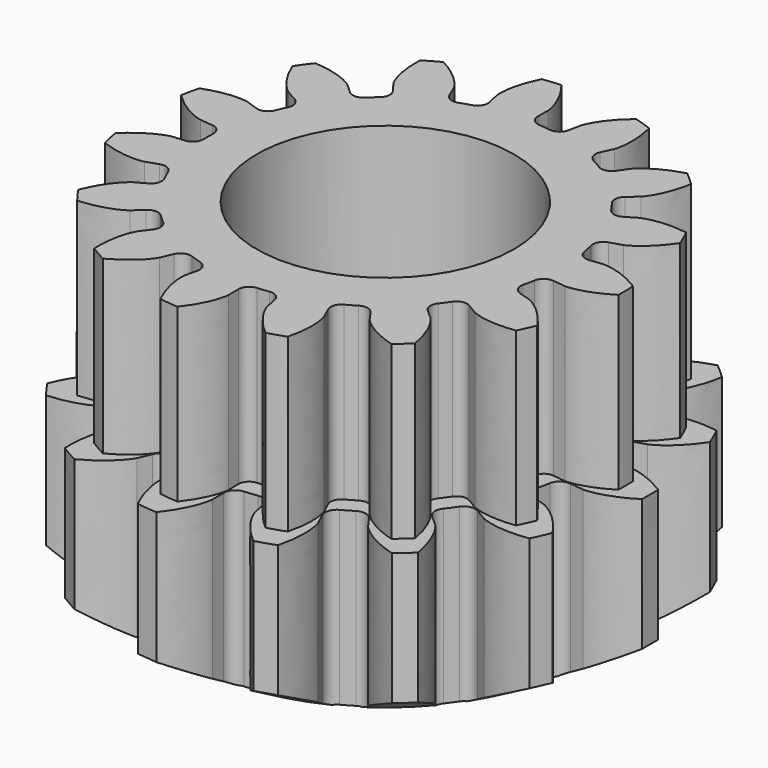
from build123d import *

# Parameters (mm, degrees)
PAD008_DEPTH    = 6
PAD009_DEPTH    = 6
SKETCH029_R     = 4.5
POCKET012_DEPTH = 12


with BuildPart() as part:
    # InvoluteGear005 → Pad008 (new body)
    with BuildSketch(Plane.XY):
        with BuildLine():
            Line((7.158149, -0.860395), (7.64458, -0.918067))
            add(Edge.make_bspline(
                [(7.64458, -0.918067), (7.723106, -0.920551), (8.037619, -0.919454), (8.590539, -0.778166), (9.258058, -0.35636)],
                knots=[0, 0, 0, 0, 0, 1, 1, 1, 1, 1], degree=4))
            ThreePointArc((9.258058, -0.35636), (9.264914, 0), (9.258058, 0.35636))
            add(Edge.make_bspline(
                [(9.258058, 0.35636), (8.590539, 0.778166), (8.037619, 0.919454), (7.723106, 0.920551), (7.64458, 0.918067)],
                knots=[0, 0, 0, 0, 0, 1, 1, 1, 1, 1], degree=4))
            Line((7.64458, 0.918067), (7.158149, 0.860395))
            ThreePointArc((7.158149, 0.860395), (6.866348, 0.937564), (6.70706, 1.193944))
            ThreePointArc((6.70706, 1.193944), (6.663631, 1.416398), (6.612825, 1.637285))
            ThreePointArc((6.612825, 1.637285), (6.654062, 1.936288), (6.889249, 2.125471))
            Line((6.889249, 2.125471), (7.357083, 2.270635))
            add(Edge.make_bspline(
                [(7.357083, 2.270635), (7.42983, 2.300305), (7.716706, 2.429231), (8.164356, 2.783197), (8.602602, 3.44004)],
                knots=[0, 0, 0, 0, 0, 1, 1, 1, 1, 1], degree=4))
            ThreePointArc((8.602602, 3.44004), (8.46392, 3.76838), (8.312712, 4.091143))
            add(Edge.make_bspline(
                [(8.312712, 4.091143), (7.531339, 4.204977), (6.968755, 4.109157), (6.680986, 3.982236), (6.61026, 3.948027)],
                knots=[0, 0, 0, 0, 0, 1, 1, 1, 1, 1], degree=4))
            Line((6.61026, 3.948027), (6.18934, 3.697492))
            ThreePointArc((6.18934, 3.697492), (5.891379, 3.649303), (5.641584, 3.818729))
            ThreePointArc((5.641584, 3.818729), (5.511428, 4.004287), (5.375172, 4.185413))
            ThreePointArc((5.375172, 4.185413), (5.291229, 4.475338), (5.429135, 4.743824))
            Line((5.429135, 4.743824), (5.797479, 5.066724))
            add(Edge.make_bspline(
                [(5.797479, 5.066724), (5.851869, 5.123417), (6.061504, 5.35788), (6.326482, 5.86332), (6.459677, 6.641627)],
                knots=[0, 0, 0, 0, 0, 1, 1, 1, 1, 1], degree=4))
            ThreePointArc((6.459677, 6.641627), (6.199438, 6.885173), (5.930023, 7.118529))
            add(Edge.make_bspline(
                [(5.930023, 7.118529), (5.169903, 6.904709), (4.694929, 6.58835), (4.483663, 6.355355), (4.432966, 6.295337)],
                knots=[0, 0, 0, 0, 0, 1, 1, 1, 1, 1], degree=4))
            Line((4.432966, 6.295337), (4.150338, 5.895258))
            ThreePointArc((4.150338, 5.895258), (3.897737, 5.730044), (3.600626, 5.783221))
            ThreePointArc((3.600626, 5.783221), (3.40625, 5.899798), (3.208103, 6.009844))
            ThreePointArc((3.208103, 6.009844), (3.013495, 6.240561), (3.030274, 6.541927))
            Line((3.030274, 6.541927), (3.235439, 6.98673))
            add(Edge.make_bspline(
                [(3.235439, 6.98673), (3.262067, 7.060644), (3.358213, 7.360103), (3.394702, 7.929621), (3.199816, 8.694815)],
                knots=[0, 0, 0, 0, 0, 1, 1, 1, 1, 1], degree=4))
            ThreePointArc((3.199816, 8.694815), (2.863016, 8.811457), (2.521979, 8.915058))
            add(Edge.make_bspline(
                [(2.521979, 8.915058), (1.914543, 8.410554), (1.609308, 7.928357), (1.511075, 7.629576), (1.489172, 7.554126)],
                knots=[0, 0, 0, 0, 0, 1, 1, 1, 1, 1], degree=4))
            Line((1.489172, 7.554126), (1.393705, 7.073681))
            ThreePointArc((1.393705, 7.073681), (1.230142, 6.820008), (0.937088, 6.747742))
            ThreePointArc((0.937088, 6.747742), (0.7121, 6.77518), (0.486324, 6.795119))
            ThreePointArc((0.486324, 6.795119), (0.214699, 6.926735), (0.107452, 7.208872))
            Line((0.107452, 7.208872), (0.113961, 7.698667))
            add(Edge.make_bspline(
                [(0.113961, 7.698667), (0.108224, 7.777021), (0.074257, 8.089697), (-0.124053, 8.624819), (-0.613323, 9.244591)],
                knots=[0, 0, 0, 0, 0, 1, 1, 1, 1, 1], degree=4))
            ThreePointArc((-0.613323, 9.244591), (-0.968447, 9.21416), (-1.322138, 9.170092))
            add(Edge.make_bspline(
                [(-1.322138, 9.170092), (-1.671859, 8.462138), (-1.754577, 7.897479), (-1.722793, 7.584574), (-1.712114, 7.506739)],
                knots=[0, 0, 0, 0, 0, 1, 1, 1, 1, 1], degree=4))
            Line((-1.712114, 7.506739), (-1.603912, 7.029))
            ThreePointArc((-1.603912, 7.029), (-1.650157, 6.730731), (-1.888482, 6.545517))
            ThreePointArc((-1.888482, 6.545517), (-2.105178, 6.479073), (-2.319545, 6.405456))
            ThreePointArc((-2.319545, 6.405456), (-2.621219, 6.415214), (-2.83395, 6.629336))
            Line((-2.83395, 6.629336), (-3.027221, 7.079434))
            add(Edge.make_bspline(
                [(-3.027221, 7.079434), (-3.064332, 7.148681), (-3.222539, 7.420509), (-3.621358, 7.828708), (-4.320412, 8.195894)],
                knots=[0, 0, 0, 0, 0, 1, 1, 1, 1, 1], degree=4))
            ThreePointArc((-4.320412, 8.195894), (-4.632457, 8.023651), (-4.937646, 7.839534))
            add(Edge.make_bspline(
                [(-4.937646, 7.839534), (-4.969181, 7.050542), (-4.81508, 6.501055), (-4.658774, 6.22813), (-4.617359, 6.161368)],
                knots=[0, 0, 0, 0, 0, 1, 1, 1, 1, 1], degree=4))
            Line((-4.617359, 6.161368), (-4.324199, 5.768941))
            ThreePointArc((-4.324199, 5.768941), (-4.245128, 5.477649), (-4.387515, 5.211513))
            ThreePointArc((-4.387515, 5.211513), (-4.558452, 5.062674), (-4.724343, 4.908232))
            ThreePointArc((-4.724343, 4.908232), (-5.003906, 4.794443), (-5.285336, 4.903529))
            Line((-5.285336, 4.903529), (-5.644969, 5.236103))
            add(Edge.make_bspline(
                [(-5.644969, 5.236103), (-5.707037, 5.284269), (-5.962129, 5.468248), (-6.492498, 5.678941), (-7.280463, 5.730051)],
                knots=[0, 0, 0, 0, 0, 1, 1, 1, 1, 1], degree=4))
            ThreePointArc((-7.280463, 5.730051), (-7.495473, 5.44578), (-7.69939, 5.153449))
            add(Edge.make_bspline(
                [(-7.69939, 5.153449), (-7.407286, 4.419843), (-7.043012, 3.98054), (-6.78921, 3.794786), (-6.724222, 3.75064)],
                knots=[0, 0, 0, 0, 0, 1, 1, 1, 1, 1], degree=4))
            Line((-6.724222, 3.75064), (-6.296792, 3.51138))
            ThreePointArc((-6.296792, 3.51138), (-6.106078, 3.277433), (-6.127908, 2.97639))
            ThreePointArc((-6.127908, 2.97639), (-6.223528, 2.770893), (-6.31226, 2.562329))
            ThreePointArc((-6.31226, 2.562329), (-6.521371, 2.34467), (-6.82284, 2.329857))
            Line((-6.82284, 2.329857), (-7.286651, 2.487402))
            add(Edge.make_bspline(
                [(-7.286651, 2.487402), (-7.362944, 2.506159), (-7.670812, 2.570476), (-8.241025, 2.547234), (-8.981656, 2.273431)],
                knots=[0, 0, 0, 0, 0, 1, 1, 1, 1, 1], degree=4))
            ThreePointArc((-8.981656, 2.273431), (-9.062454, 1.926284), (-9.129839, 1.576286))
            add(Edge.make_bspline(
                [(-9.129839, 1.576286), (-8.564605, 1.024913), (-8.053143, 0.771753), (-7.745731, 0.705289), (-7.668405, 0.691393)],
                knots=[0, 0, 0, 0, 0, 1, 1, 1, 1, 1], degree=4))
            Line((-7.668405, 0.691393), (-7.180612, 0.646669))
            ThreePointArc((-7.180612, 0.646669), (-6.911232, 0.510518), (-6.80873, 0.226623))
            ThreePointArc((-6.80873, 0.226623), (-6.8125, 0), (-6.80873, -0.226623))
            ThreePointArc((-6.80873, -0.226623), (-6.911232, -0.510518), (-7.180612, -0.646669))
            Line((-7.180612, -0.646669), (-7.668405, -0.691393))
            add(Edge.make_bspline(
                [(-7.668405, -0.691393), (-7.745731, -0.705289), (-8.053143, -0.771753), (-8.564605, -1.024913), (-9.129839, -1.576286)],
                knots=[0, 0, 0, 0, 0, 1, 1, 1, 1, 1], degree=4))
            ThreePointArc((-9.129839, -1.576286), (-9.062454, -1.926284), (-8.981656, -2.273431))
            add(Edge.make_bspline(
                [(-8.981656, -2.273431), (-8.241025, -2.547234), (-7.670812, -2.570476), (-7.362944, -2.506159), (-7.286651, -2.487402)],
                knots=[0, 0, 0, 0, 0, 1, 1, 1, 1, 1], degree=4))
            Line((-7.286651, -2.487402), (-6.82284, -2.329857))
            ThreePointArc((-6.82284, -2.329857), (-6.521371, -2.34467), (-6.31226, -2.562329))
            ThreePointArc((-6.31226, -2.562329), (-6.223528, -2.770893), (-6.127908, -2.97639))
            ThreePointArc((-6.127908, -2.97639), (-6.106078, -3.277433), (-6.296792, -3.51138))
            Line((-6.296792, -3.51138), (-6.724222, -3.75064))
            add(Edge.make_bspline(
                [(-6.724222, -3.75064), (-6.78921, -3.794786), (-7.043012, -3.98054), (-7.407286, -4.419843), (-7.69939, -5.153449)],
                knots=[0, 0, 0, 0, 0, 1, 1, 1, 1, 1], degree=4))
            ThreePointArc((-7.69939, -5.153449), (-7.495473, -5.44578), (-7.280463, -5.730051))
            add(Edge.make_bspline(
                [(-7.280463, -5.730051), (-6.492498, -5.678941), (-5.962129, -5.468248), (-5.707037, -5.284269), (-5.644969, -5.236103)],
                knots=[0, 0, 0, 0, 0, 1, 1, 1, 1, 1], degree=4))
            Line((-5.644969, -5.236103), (-5.285336, -4.903529))
            ThreePointArc((-5.285336, -4.903529), (-5.003906, -4.794443), (-4.724343, -4.908232))
            ThreePointArc((-4.724343, -4.908232), (-4.558452, -5.062674), (-4.387515, -5.211513))
            ThreePointArc((-4.387515, -5.211513), (-4.245128, -5.477649), (-4.324199, -5.768941))
            Line((-4.324199, -5.768941), (-4.617359, -6.161368))
            add(Edge.make_bspline(
                [(-4.617359, -6.161368), (-4.658774, -6.22813), (-4.81508, -6.501055), (-4.969181, -7.050542), (-4.937646, -7.839534)],
                knots=[0, 0, 0, 0, 0, 1, 1, 1, 1, 1], degree=4))
            ThreePointArc((-4.937646, -7.839534), (-4.632457, -8.023651), (-4.320412, -8.195894))
            add(Edge.make_bspline(
                [(-4.320412, -8.195894), (-3.621358, -7.828708), (-3.222539, -7.420509), (-3.064332, -7.148681), (-3.027221, -7.079434)],
                knots=[0, 0, 0, 0, 0, 1, 1, 1, 1, 1], degree=4))
            Line((-3.027221, -7.079434), (-2.83395, -6.629336))
            ThreePointArc((-2.83395, -6.629336), (-2.621219, -6.415214), (-2.319545, -6.405456))
            ThreePointArc((-2.319545, -6.405456), (-2.105178, -6.479073), (-1.888482, -6.545517))
            ThreePointArc((-1.888482, -6.545517), (-1.650157, -6.730731), (-1.603912, -7.029))
            Line((-1.603912, -7.029), (-1.712114, -7.506739))
            add(Edge.make_bspline(
                [(-1.712114, -7.506739), (-1.722793, -7.584574), (-1.754577, -7.897479), (-1.671859, -8.462138), (-1.322138, -9.170092)],
                knots=[0, 0, 0, 0, 0, 1, 1, 1, 1, 1], degree=4))
            ThreePointArc((-1.322138, -9.170092), (-0.968447, -9.21416), (-0.613323, -9.244591))
            add(Edge.make_bspline(
                [(-0.613323, -9.244591), (-0.124053, -8.624819), (0.074257, -8.089697), (0.108224, -7.777021), (0.113961, -7.698667)],
                knots=[0, 0, 0, 0, 0, 1, 1, 1, 1, 1], degree=4))
            Line((0.113961, -7.698667), (0.107452, -7.208872))
            ThreePointArc((0.107452, -7.208872), (0.214699, -6.926735), (0.486324, -6.795119))
            ThreePointArc((0.486324, -6.795119), (0.7121, -6.77518), (0.937088, -6.747742))
            ThreePointArc((0.937088, -6.747742), (1.230142, -6.820008), (1.393705, -7.073681))
            Line((1.393705, -7.073681), (1.489172, -7.554126))
            add(Edge.make_bspline(
                [(1.489172, -7.554126), (1.511075, -7.629576), (1.609308, -7.928357), (1.914543, -8.410554), (2.521979, -8.915058)],
                knots=[0, 0, 0, 0, 0, 1, 1, 1, 1, 1], degree=4))
            ThreePointArc((2.521979, -8.915058), (2.863016, -8.811457), (3.199816, -8.694815))
            add(Edge.make_bspline(
                [(3.199816, -8.694815), (3.394702, -7.929621), (3.358213, -7.360103), (3.262067, -7.060644), (3.235439, -6.98673)],
                knots=[0, 0, 0, 0, 0, 1, 1, 1, 1, 1], degree=4))
            Line((3.235439, -6.98673), (3.030274, -6.541927))
            ThreePointArc((3.030274, -6.541927), (3.013495, -6.240561), (3.208103, -6.009844))
            ThreePointArc((3.208103, -6.009844), (3.40625, -5.899798), (3.600626, -5.783221))
            ThreePointArc((3.600626, -5.783221), (3.897737, -5.730044), (4.150338, -5.895258))
            Line((4.150338, -5.895258), (4.432966, -6.295337))
            add(Edge.make_bspline(
                [(4.432966, -6.295337), (4.483663, -6.355355), (4.694929, -6.58835), (5.169903, -6.904709), (5.930023, -7.118529)],
                knots=[0, 0, 0, 0, 0, 1, 1, 1, 1, 1], degree=4))
            ThreePointArc((5.930023, -7.118529), (6.199438, -6.885173), (6.459677, -6.641627))
            add(Edge.make_bspline(
                [(6.459677, -6.641627), (6.326482, -5.86332), (6.061504, -5.35788), (5.851869, -5.123417), (5.797479, -5.066724)],
                knots=[0, 0, 0, 0, 0, 1, 1, 1, 1, 1], degree=4))
            Line((5.797479, -5.066724), (5.429135, -4.743824))
            ThreePointArc((5.429135, -4.743824), (5.291229, -4.475338), (5.375172, -4.185413))
            ThreePointArc((5.375172, -4.185413), (5.511428, -4.004287), (5.641584, -3.818729))
            ThreePointArc((5.641584, -3.818729), (5.891379, -3.649303), (6.18934, -3.697492))
            Line((6.18934, -3.697492), (6.61026, -3.948027))
            add(Edge.make_bspline(
                [(6.61026, -3.948027), (6.680986, -3.982236), (6.968755, -4.109157), (7.531339, -4.204977), (8.312712, -4.091143)],
                knots=[0, 0, 0, 0, 0, 1, 1, 1, 1, 1], degree=4))
            ThreePointArc((8.312712, -4.091143), (8.46392, -3.76838), (8.602602, -3.44004))
            add(Edge.make_bspline(
                [(8.602602, -3.44004), (8.164356, -2.783197), (7.716706, -2.429231), (7.42983, -2.300305), (7.357083, -2.270635)],
                knots=[0, 0, 0, 0, 0, 1, 1, 1, 1, 1], degree=4))
            Line((7.357083, -2.270635), (6.889249, -2.125471))
            ThreePointArc((6.889249, -2.125471), (6.654062, -1.936288), (6.612825, -1.637285))
            ThreePointArc((6.612825, -1.637285), (6.663631, -1.416398), (6.70706, -1.193944))
            ThreePointArc((6.70706, -1.193944), (6.866348, -0.937564), (7.158149, -0.860395))
        make_face()
    extrude(amount=PAD008_DEPTH)

    # InvoluteGear004 → Pad009 (join)
    with BuildSketch(Plane.XY.offset(6)):
        with BuildLine():
            Line((6.501438, -0.78146), (6.943243, -0.83384))
            add(Edge.make_bspline(
                [(6.943243, -0.83384), (7.014564, -0.836097), (7.300223, -0.8351), (7.802416, -0.706774), (8.408695, -0.323666)],
                knots=[0, 0, 0, 0, 0, 1, 1, 1, 1, 1], degree=4))
            ThreePointArc((8.408695, -0.323666), (8.414922, 0), (8.408695, 0.323666))
            add(Edge.make_bspline(
                [(8.408695, 0.323666), (7.802416, 0.706774), (7.300223, 0.8351), (7.014564, 0.836097), (6.943243, 0.83384)],
                knots=[0, 0, 0, 0, 0, 1, 1, 1, 1, 1], degree=4))
            Line((6.943243, 0.83384), (6.501438, 0.78146))
            ThreePointArc((6.501438, 0.78146), (6.236408, 0.851549), (6.091733, 1.084407))
            ThreePointArc((6.091733, 1.084407), (6.052288, 1.286454), (6.006144, 1.487076))
            ThreePointArc((6.006144, 1.487076), (6.043598, 1.758647), (6.257208, 1.930474))
            Line((6.257208, 1.930474), (6.682121, 2.06232))
            add(Edge.make_bspline(
                [(6.682121, 2.06232), (6.748194, 2.089268), (7.008751, 2.206366), (7.415333, 2.527858), (7.813372, 3.12444)],
                knots=[0, 0, 0, 0, 0, 1, 1, 1, 1, 1], degree=4))
            ThreePointArc((7.813372, 3.12444), (7.687414, 3.422657), (7.550078, 3.715808))
            add(Edge.make_bspline(
                [(7.550078, 3.715808), (6.840391, 3.819199), (6.329419, 3.73217), (6.068052, 3.616893), (6.003815, 3.585822)],
                knots=[0, 0, 0, 0, 0, 1, 1, 1, 1, 1], degree=4))
            Line((6.003815, 3.585822), (5.621511, 3.358272))
            ThreePointArc((5.621511, 3.358272), (5.350886, 3.314504), (5.124007, 3.468387))
            ThreePointArc((5.124007, 3.468387), (5.005793, 3.636921), (4.882037, 3.80143))
            ThreePointArc((4.882037, 3.80143), (4.805795, 4.064756), (4.931049, 4.308611))
            Line((4.931049, 4.308611), (5.2656, 4.601887))
            add(Edge.make_bspline(
                [(5.2656, 4.601887), (5.315001, 4.653379), (5.505403, 4.866332), (5.746071, 5.325401), (5.867046, 6.032303)],
                knots=[0, 0, 0, 0, 0, 1, 1, 1, 1, 1], degree=4))
            ThreePointArc((5.867046, 6.032303), (5.630682, 6.253506), (5.385984, 6.465453))
            add(Edge.make_bspline(
                [(5.385984, 6.465453), (4.6956, 6.271249), (4.264202, 5.983914), (4.072318, 5.772295), (4.026272, 5.717783)],
                knots=[0, 0, 0, 0, 0, 1, 1, 1, 1, 1], degree=4))
            Line((4.026272, 5.717783), (3.769573, 5.354409))
            ThreePointArc((3.769573, 5.354409), (3.540147, 5.204352), (3.270294, 5.25265))
            ThreePointArc((3.270294, 5.25265), (3.09375, 5.358532), (2.913782, 5.458483))
            ThreePointArc((2.913782, 5.458483), (2.737027, 5.668033), (2.752267, 5.94175))
            Line((2.752267, 5.94175), (2.938609, 6.345745))
            add(Edge.make_bspline(
                [(2.938609, 6.345745), (2.962795, 6.412878), (3.05012, 6.684864), (3.083261, 7.202133), (2.906255, 7.897126)],
                knots=[0, 0, 0, 0, 0, 1, 1, 1, 1, 1], degree=4))
            ThreePointArc((2.906255, 7.897126), (2.600354, 8.003066), (2.290605, 8.097163))
            add(Edge.make_bspline(
                [(2.290605, 8.097163), (1.738897, 7.638944), (1.461665, 7.200984), (1.372444, 6.929615), (1.352551, 6.861087)],
                knots=[0, 0, 0, 0, 0, 1, 1, 1, 1, 1], degree=4))
            Line((1.352551, 6.861087), (1.265842, 6.424719))
            ThreePointArc((1.265842, 6.424719), (1.117285, 6.194319), (0.851116, 6.128683))
            ThreePointArc((0.851116, 6.128683), (0.64677, 6.153604), (0.441707, 6.171714))
            ThreePointArc((0.441707, 6.171714), (0.195002, 6.291255), (0.097594, 6.547507))
            Line((0.097594, 6.547507), (0.103506, 6.992367))
            add(Edge.make_bspline(
                [(0.103506, 6.992367), (0.098295, 7.063533), (0.067444, 7.347523), (-0.112672, 7.833552), (-0.557055, 8.396464)],
                knots=[0, 0, 0, 0, 0, 1, 1, 1, 1, 1], degree=4))
            ThreePointArc((-0.557055, 8.396464), (-0.879599, 8.368824), (-1.200841, 8.328799))
            add(Edge.make_bspline(
                [(-1.200841, 8.328799), (-1.518477, 7.685795), (-1.593607, 7.172939), (-1.564738, 6.888741), (-1.555039, 6.818047)],
                knots=[0, 0, 0, 0, 0, 1, 1, 1, 1, 1], degree=4))
            Line((-1.555039, 6.818047), (-1.456764, 6.384138))
            ThreePointArc((-1.456764, 6.384138), (-1.498766, 6.113233), (-1.715226, 5.945011))
            ThreePointArc((-1.715226, 5.945011), (-1.912043, 5.884662), (-2.106742, 5.8178))
            ThreePointArc((-2.106742, 5.8178), (-2.380741, 5.826662), (-2.573955, 6.02114))
            Line((-2.573955, 6.02114), (-2.749494, 6.429945))
            add(Edge.make_bspline(
                [(-2.749494, 6.429945), (-2.783201, 6.492839), (-2.926893, 6.739728), (-3.289123, 7.110478), (-3.924044, 7.443977)],
                knots=[0, 0, 0, 0, 0, 1, 1, 1, 1, 1], degree=4))
            ThreePointArc((-3.924044, 7.443977), (-4.207461, 7.287536), (-4.484651, 7.12031))
            add(Edge.make_bspline(
                [(-4.484651, 7.12031), (-4.513292, 6.403703), (-4.373329, 5.904628), (-4.231363, 5.656742), (-4.193748, 5.596104)],
                knots=[0, 0, 0, 0, 0, 1, 1, 1, 1, 1], degree=4))
            Line((-4.193748, 5.596104), (-3.927483, 5.23968))
            ThreePointArc((-3.927483, 5.23968), (-3.855667, 4.975113), (-3.984991, 4.733392))
            ThreePointArc((-3.984991, 4.733392), (-4.140246, 4.598209), (-4.290917, 4.457935))
            ThreePointArc((-4.290917, 4.457935), (-4.544832, 4.354586), (-4.800443, 4.453664))
            Line((-4.800443, 4.453664), (-5.127082, 4.755727))
            add(Edge.make_bspline(
                [(-5.127082, 4.755727), (-5.183456, 4.799474), (-5.415145, 4.966573), (-5.896856, 5.157937), (-6.612531, 5.204359)],
                knots=[0, 0, 0, 0, 0, 1, 1, 1, 1, 1], degree=4))
            ThreePointArc((-6.612531, 5.204359), (-6.807815, 4.946167), (-6.993024, 4.680655))
            add(Edge.make_bspline(
                [(-6.993024, 4.680655), (-6.727719, 4.014353), (-6.396864, 3.615353), (-6.166347, 3.44664), (-6.107321, 3.406545)],
                knots=[0, 0, 0, 0, 0, 1, 1, 1, 1, 1], degree=4))
            Line((-6.107321, 3.406545), (-5.719104, 3.189235))
            ThreePointArc((-5.719104, 3.189235), (-5.545888, 2.976751), (-5.565715, 2.703327))
            ThreePointArc((-5.565715, 2.703327), (-5.652563, 2.516683), (-5.733154, 2.327253))
            ThreePointArc((-5.733154, 2.327253), (-5.92308, 2.129563), (-6.196891, 2.116108))
            Line((-6.196891, 2.116108), (-6.618151, 2.2592))
            add(Edge.make_bspline(
                [(-6.618151, 2.2592), (-6.687444, 2.276236), (-6.967068, 2.334653), (-7.484968, 2.313543), (-8.157651, 2.06486)],
                knots=[0, 0, 0, 0, 0, 1, 1, 1, 1, 1], degree=4))
            ThreePointArc((-8.157651, 2.06486), (-8.231036, 1.749561), (-8.292239, 1.431672))
            add(Edge.make_bspline(
                [(-8.292239, 1.431672), (-7.778861, 0.930884), (-7.314322, 0.70095), (-7.035113, 0.640584), (-6.964881, 0.627962)],
                knots=[0, 0, 0, 0, 0, 1, 1, 1, 1, 1], degree=4))
            Line((-6.964881, 0.627962), (-6.521841, 0.587342))
            ThreePointArc((-6.521841, 0.587342), (-6.277174, 0.463681), (-6.184075, 0.205832))
            ThreePointArc((-6.184075, 0.205832), (-6.1875, 0), (-6.184075, -0.205832))
            ThreePointArc((-6.184075, -0.205832), (-6.277174, -0.463681), (-6.521841, -0.587342))
            Line((-6.521841, -0.587342), (-6.964881, -0.627962))
            add(Edge.make_bspline(
                [(-6.964881, -0.627962), (-7.035113, -0.640584), (-7.314322, -0.70095), (-7.778861, -0.930884), (-8.292239, -1.431672)],
                knots=[0, 0, 0, 0, 0, 1, 1, 1, 1, 1], degree=4))
            ThreePointArc((-8.292239, -1.431672), (-8.231036, -1.749561), (-8.157651, -2.06486))
            add(Edge.make_bspline(
                [(-8.157651, -2.06486), (-7.484968, -2.313543), (-6.967068, -2.334653), (-6.687444, -2.276236), (-6.618151, -2.2592)],
                knots=[0, 0, 0, 0, 0, 1, 1, 1, 1, 1], degree=4))
            Line((-6.618151, -2.2592), (-6.196891, -2.116108))
            ThreePointArc((-6.196891, -2.116108), (-5.92308, -2.129563), (-5.733154, -2.327253))
            ThreePointArc((-5.733154, -2.327253), (-5.652563, -2.516683), (-5.565715, -2.703327))
            ThreePointArc((-5.565715, -2.703327), (-5.545888, -2.976751), (-5.719104, -3.189235))
            Line((-5.719104, -3.189235), (-6.107321, -3.406545))
            add(Edge.make_bspline(
                [(-6.107321, -3.406545), (-6.166347, -3.44664), (-6.396864, -3.615353), (-6.727719, -4.014353), (-6.993024, -4.680655)],
                knots=[0, 0, 0, 0, 0, 1, 1, 1, 1, 1], degree=4))
            ThreePointArc((-6.993024, -4.680655), (-6.807815, -4.946167), (-6.612531, -5.204359))
            add(Edge.make_bspline(
                [(-6.612531, -5.204359), (-5.896856, -5.157937), (-5.415145, -4.966573), (-5.183456, -4.799474), (-5.127082, -4.755727)],
                knots=[0, 0, 0, 0, 0, 1, 1, 1, 1, 1], degree=4))
            Line((-5.127082, -4.755727), (-4.800443, -4.453664))
            ThreePointArc((-4.800443, -4.453664), (-4.544832, -4.354586), (-4.290917, -4.457935))
            ThreePointArc((-4.290917, -4.457935), (-4.140246, -4.598209), (-3.984991, -4.733392))
            ThreePointArc((-3.984991, -4.733392), (-3.855667, -4.975113), (-3.927483, -5.23968))
            Line((-3.927483, -5.23968), (-4.193748, -5.596104))
            add(Edge.make_bspline(
                [(-4.193748, -5.596104), (-4.231363, -5.656742), (-4.373329, -5.904628), (-4.513292, -6.403703), (-4.484651, -7.12031)],
                knots=[0, 0, 0, 0, 0, 1, 1, 1, 1, 1], degree=4))
            ThreePointArc((-4.484651, -7.12031), (-4.207461, -7.287536), (-3.924044, -7.443977))
            add(Edge.make_bspline(
                [(-3.924044, -7.443977), (-3.289123, -7.110478), (-2.926893, -6.739728), (-2.783201, -6.492839), (-2.749494, -6.429945)],
                knots=[0, 0, 0, 0, 0, 1, 1, 1, 1, 1], degree=4))
            Line((-2.749494, -6.429945), (-2.573955, -6.02114))
            ThreePointArc((-2.573955, -6.02114), (-2.380741, -5.826662), (-2.106742, -5.8178))
            ThreePointArc((-2.106742, -5.8178), (-1.912043, -5.884662), (-1.715226, -5.945011))
            ThreePointArc((-1.715226, -5.945011), (-1.498766, -6.113233), (-1.456764, -6.384138))
            Line((-1.456764, -6.384138), (-1.555039, -6.818047))
            add(Edge.make_bspline(
                [(-1.555039, -6.818047), (-1.564738, -6.888741), (-1.593607, -7.172939), (-1.518477, -7.685795), (-1.200841, -8.328799)],
                knots=[0, 0, 0, 0, 0, 1, 1, 1, 1, 1], degree=4))
            ThreePointArc((-1.200841, -8.328799), (-0.879599, -8.368824), (-0.557055, -8.396464))
            add(Edge.make_bspline(
                [(-0.557055, -8.396464), (-0.112672, -7.833552), (0.067444, -7.347523), (0.098295, -7.063533), (0.103506, -6.992367)],
                knots=[0, 0, 0, 0, 0, 1, 1, 1, 1, 1], degree=4))
            Line((0.103506, -6.992367), (0.097594, -6.547507))
            ThreePointArc((0.097594, -6.547507), (0.195002, -6.291255), (0.441707, -6.171714))
            ThreePointArc((0.441707, -6.171714), (0.64677, -6.153604), (0.851116, -6.128683))
            ThreePointArc((0.851116, -6.128683), (1.117285, -6.194319), (1.265842, -6.424719))
            Line((1.265842, -6.424719), (1.352551, -6.861087))
            add(Edge.make_bspline(
                [(1.352551, -6.861087), (1.372444, -6.929615), (1.461665, -7.200984), (1.738897, -7.638944), (2.290605, -8.097163)],
                knots=[0, 0, 0, 0, 0, 1, 1, 1, 1, 1], degree=4))
            ThreePointArc((2.290605, -8.097163), (2.600354, -8.003066), (2.906255, -7.897126))
            add(Edge.make_bspline(
                [(2.906255, -7.897126), (3.083261, -7.202133), (3.05012, -6.684864), (2.962795, -6.412878), (2.938609, -6.345745)],
                knots=[0, 0, 0, 0, 0, 1, 1, 1, 1, 1], degree=4))
            Line((2.938609, -6.345745), (2.752267, -5.94175))
            ThreePointArc((2.752267, -5.94175), (2.737027, -5.668033), (2.913782, -5.458483))
            ThreePointArc((2.913782, -5.458483), (3.09375, -5.358532), (3.270294, -5.25265))
            ThreePointArc((3.270294, -5.25265), (3.540147, -5.204352), (3.769573, -5.354409))
            Line((3.769573, -5.354409), (4.026272, -5.717783))
            add(Edge.make_bspline(
                [(4.026272, -5.717783), (4.072318, -5.772295), (4.264202, -5.983914), (4.6956, -6.271249), (5.385984, -6.465453)],
                knots=[0, 0, 0, 0, 0, 1, 1, 1, 1, 1], degree=4))
            ThreePointArc((5.385984, -6.465453), (5.630682, -6.253506), (5.867046, -6.032303))
            add(Edge.make_bspline(
                [(5.867046, -6.032303), (5.746071, -5.325401), (5.505403, -4.866332), (5.315001, -4.653379), (5.2656, -4.601887)],
                knots=[0, 0, 0, 0, 0, 1, 1, 1, 1, 1], degree=4))
            Line((5.2656, -4.601887), (4.931049, -4.308611))
            ThreePointArc((4.931049, -4.308611), (4.805795, -4.064756), (4.882037, -3.80143))
            ThreePointArc((4.882037, -3.80143), (5.005793, -3.636921), (5.124007, -3.468387))
            ThreePointArc((5.124007, -3.468387), (5.350886, -3.314504), (5.621511, -3.358272))
            Line((5.621511, -3.358272), (6.003815, -3.585822))
            add(Edge.make_bspline(
                [(6.003815, -3.585822), (6.068052, -3.616893), (6.329419, -3.73217), (6.840391, -3.819199), (7.550078, -3.715808)],
                knots=[0, 0, 0, 0, 0, 1, 1, 1, 1, 1], degree=4))
            ThreePointArc((7.550078, -3.715808), (7.687414, -3.422657), (7.813372, -3.12444))
            add(Edge.make_bspline(
                [(7.813372, -3.12444), (7.415333, -2.527858), (7.008751, -2.206366), (6.748194, -2.089268), (6.682121, -2.06232)],
                knots=[0, 0, 0, 0, 0, 1, 1, 1, 1, 1], degree=4))
            Line((6.682121, -2.06232), (6.257208, -1.930474))
            ThreePointArc((6.257208, -1.930474), (6.043598, -1.758647), (6.006144, -1.487076))
            ThreePointArc((6.006144, -1.487076), (6.052288, -1.286454), (6.091733, -1.084407))
            ThreePointArc((6.091733, -1.084407), (6.236408, -0.851549), (6.501438, -0.78146))
        make_face()
    extrude(amount=PAD009_DEPTH)

    # Sketch029 → Pocket012 (cut)
    with BuildSketch(Plane.XY):
        Circle(SKETCH029_R)
    extrude(amount=POCKET012_DEPTH, mode=Mode.SUBTRACT)

    # Sketch027 → Groove003 (revolve, cut)
    with BuildSketch(Plane.XZ):
        Polygon((9.36, 0), (9.36, 1.437602), (6.87, 0), (8.25, 0), align=None)
    revolve(axis=Axis((0, 0, 0), (0, 0, 1)), mode=Mode.SUBTRACT)


with BuildPart() as part_1:
    # Body005 placement: moved
    add(part.part.moved(Location((16.5, 0, 0))))


solid = part_1.part
